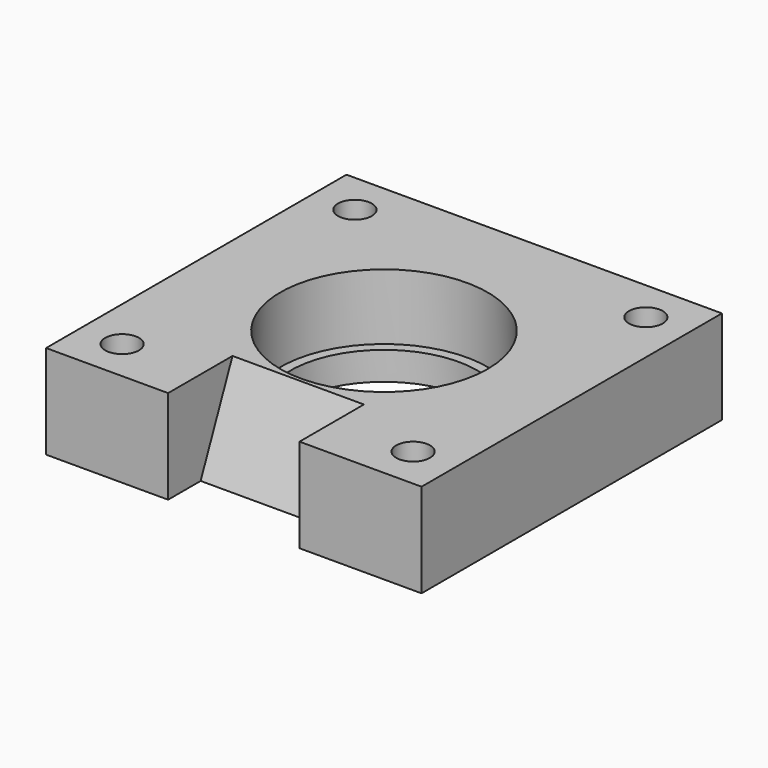
from build123d import *

# Parameters (mm, degrees)
BOX_W               = 14
BOX_H               = 10
BOX_DEPTH           = 20
BOX_PLACEMENT_ANGLE = 157
SKETCH_W            = 40
SKETCH_H            = 40
SKETCH_R            = 1.8
SKETCH_R_2          = 10
PAD_DEPTH           = 10
SKETCH001_R         = 11.05
POCKET_DEPTH        = 7


with BuildPart() as cube:
    # Box → Box (new body)
    with BuildSketch(Plane.XY):
        with Locations((7, 5)):
            Rectangle(BOX_W, BOX_H)
    extrude(amount=BOX_DEPTH)


with BuildPart() as cube_1:
    # Box placement: moved
    add(cube.part.moved(Location((-7, -11, 11))).rotate(Axis((-7, -11, 11), (1, 0, 0)), BOX_PLACEMENT_ANGLE))


with BuildPart() as cut:
    # Sketch → Pad (new body)
    with BuildSketch(Plane.XY):
        Rectangle(SKETCH_W, SKETCH_H)
        with Locations((-15.5, 15.5)):
            Circle(SKETCH_R, mode=Mode.SUBTRACT)
        with Locations((15.5, 15.5)):
            Circle(SKETCH_R, mode=Mode.SUBTRACT)
        with Locations((-15.5, -15.5)):
            Circle(SKETCH_R, mode=Mode.SUBTRACT)
        with Locations((15.5, -15.5)):
            Circle(SKETCH_R, mode=Mode.SUBTRACT)
        Circle(SKETCH_R_2, mode=Mode.SUBTRACT)
    extrude(amount=PAD_DEPTH)

    # Sketch001 → Pocket (cut)
    with BuildSketch(Plane.XY.offset(10)):
        Circle(SKETCH001_R)
    extrude(amount=-POCKET_DEPTH, mode=Mode.SUBTRACT)

    # Cut: cut Cube
    add(cube_1.part, mode=Mode.SUBTRACT)


solid = cut.part
